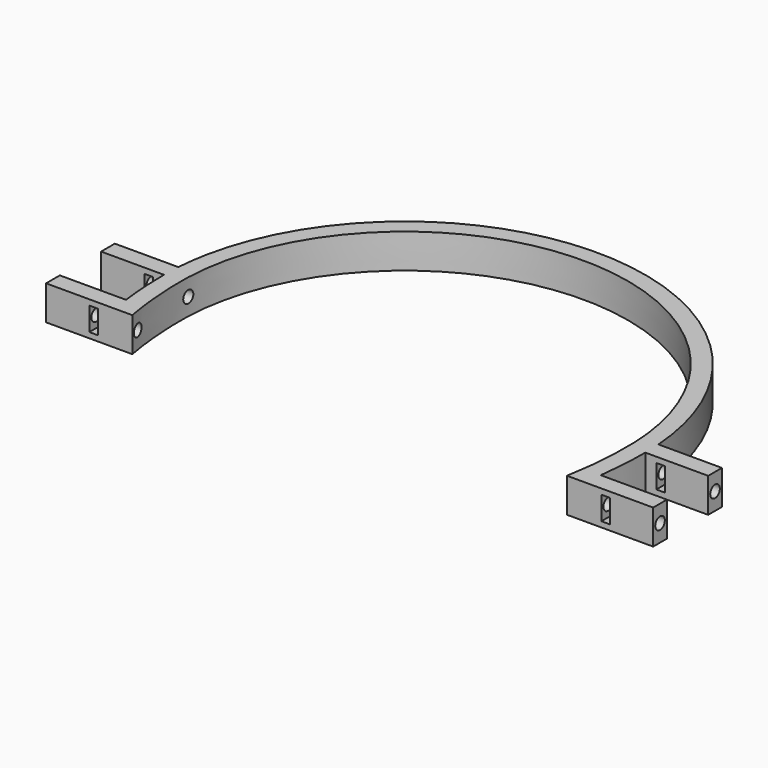
from build123d import *

# Parameters (mm, degrees)
F1_DEPTH = 12.7
F2_R     = 2.2225
F3_DEPTH = 224.2610175194
F5_DEPTH = 114.3010001
F7_DEPTH = 114.3010001


with BuildPart() as f1:
    # F0 (on Top) → F1 (new body)
    with BuildSketch(Plane.XY):
        with BuildLine():
            add(Edge.make_bspline(
                [(82.55, 0), (82.55, 82.55), (0, 82.55), (-82.55, 82.55), (-82.55, 0)],
                knots=[3.1415926536, 3.1415926536, 3.1415926536, 4.7123889804, 4.7123889804, 6.2831853072, 6.2831853072, 6.2831853072], degree=2, weights=[1, 0.7071067812, 1, 0.7071067812, 1]))
            add(Edge.make_bspline(
                [(80.2907301186, -25.4), (82.55, -12.876201172), (82.55, 0)],
                knots=[1.3363000119, 1.3363000119, 1.3363000119, 1.5707963268, 1.5707963268, 1.5707963268], degree=2, weights=[1, 0.9931343055, 1]))
            Line((80.2907301186, -25.4), (86.7300087097, -25.4))
            Line((86.7300087097, -25.4), (112.1300087097, -25.4))
            Line((112.1300087097, -25.4), (112.1300087097, -19.05))
            Line((112.1300087097, -19.05), (87.6859879403, -19.05))
            add(Edge.make_bspline(
                [(87.6859879403, -19.05), (88.9, -9.5904834792), (88.9, 0)],
                knots=[1.4053446837, 1.4053446837, 1.4053446837, 1.5707963268, 1.5707963268, 1.5707963268], degree=2, weights=[1, 0.9965801702, 1]))
            Line((88.9, 0), (112.1300087097, 0))
            Line((112.1300087097, 0), (112.1300087097, 6.35))
            Line((112.1300087097, 6.35), (88.6729242779, 6.35))
            add(Edge.make_bspline(
                [(88.6729242779, 6.35), (82.7613959927, 88.9), (0, 88.9), (-82.7613959927, 88.9), (-88.6729242779, 6.35)],
                knots=[3.2130821035, 3.2130821035, 3.2130821035, 4.7123889804, 4.7123889804, 6.2116958573, 6.2116958573, 6.2116958573], degree=2, weights=[1, 0.7319250547, 1, 0.7319250547, 1]))
            Line((-88.6729242779, 6.35), (-112.1300087097, 6.35))
            Line((-112.1300087097, 6.35), (-112.1300087097, 0))
            Line((-112.1300087097, 0), (-88.9, 0))
            add(Edge.make_bspline(
                [(-88.9, 0), (-88.9, -9.5904834792), (-87.6859879403, -19.05)],
                knots=[4.7123889804, 4.7123889804, 4.7123889804, 4.8778406234, 4.8778406234, 4.8778406234], degree=2, weights=[1, 0.9965801702, 1]))
            Line((-87.6859879403, -19.05), (-112.1300087097, -19.05))
            Line((-112.1300087097, -19.05), (-112.1300087097, -25.4))
            Line((-112.1300087097, -25.4), (-86.7300087097, -25.4))
            Line((-86.7300087097, -25.4), (-80.2907301186, -25.4))
            add(Edge.make_bspline(
                [(-82.55, 0), (-82.55, -12.876201172), (-80.2907301186, -25.4)],
                knots=[4.7123889804, 4.7123889804, 4.7123889804, 4.9468852953, 4.9468852953, 4.9468852953], degree=2, weights=[1, 0.9931343055, 1]))
        make_face()
    extrude(amount=F1_DEPTH)

    # F2 (on face) → F3 (cut, through all)
    with BuildSketch(Plane.YZ.offset(112.1300087097)):
        with Locations((-22.225, 6.35)):
            Circle(F2_R)
        with Locations((3.175, 6.35)):
            Circle(F2_R)
    extrude(amount=-F3_DEPTH, mode=Mode.SUBTRACT)

    # F4 (on face) → F5 (cut, through all)
    with BuildSketch(Plane.XZ.offset(25.4)):
        Polygon((-92.9797930479, 2.0354613662), (-92.9907301186, 6.35), (-92.9907301186, 10.668), (-96.1623830557, 10.668), (-96.1623830557, 2.0354613662), align=None)
    extrude(amount=-F5_DEPTH, mode=Mode.SUBTRACT)

    # F6 (on face) → F7 (cut, through all)
    with BuildSketch(Plane.XZ.offset(25.4)):
        Polygon((92.9907301186, 10.668), (92.9907301186, 6.35), (93.0033624172, 2.0407887641), (96.1657301186, 2.0407887641), (96.1657301186, 10.668), align=None)
    extrude(amount=-F7_DEPTH, mode=Mode.SUBTRACT)


solid = f1.part
